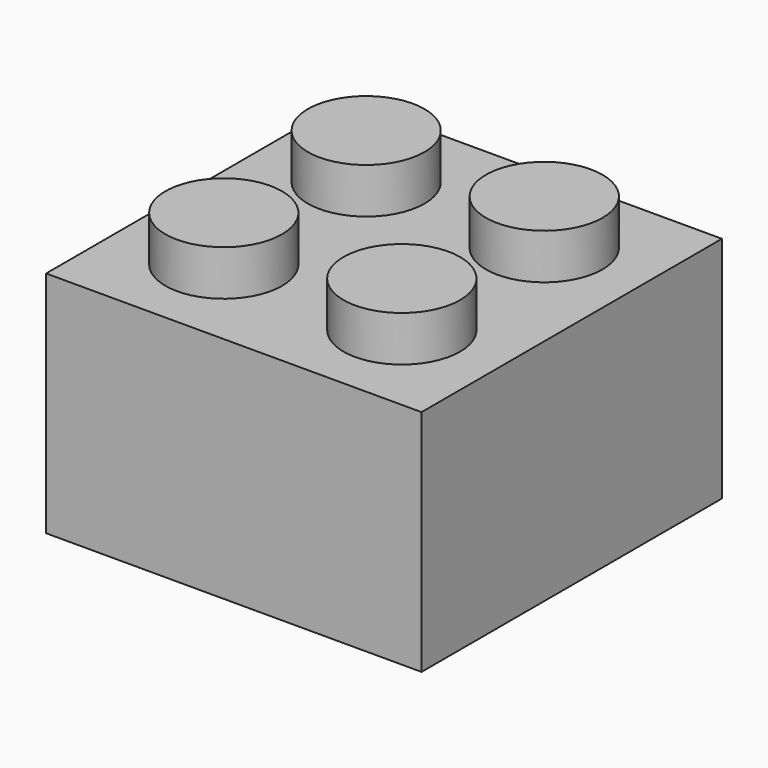
from build123d import *

# Parameters (mm, degrees)
F0_W     = 15.71
F0_H     = 9.57
F1_DEPTH = 15.71
F2_R     = 2.44
F3_DEPTH = 1.9
F4_W     = 13.29
F4_H     = 13.29
F4_R     = 2
F4_R_2   = 3.24
F5_DEPTH = 9
F6_R     = 2.48
F7_DEPTH = 9


with BuildPart() as f1:
    # F0 (on Front) → F1 (new body)
    with BuildSketch(Plane.XZ):
        with Locations((0.7616067305, 3.5766704181)):
            Rectangle(F0_W, F0_H)
    extrude(amount=F1_DEPTH)

    # F2 (on face) → F3 (join)
    with BuildSketch(Plane.XY.offset(8.3616704181)):
        with Locations((4.4866067305, -11.58)):
            Circle(F2_R)
        with Locations((-2.9633932695, -11.58)):
            Circle(F2_R)
        with Locations((-2.9633932695, -4.13)):
            Circle(F2_R)
        with Locations((4.4866067305, -4.13)):
            Circle(F2_R)
    extrude(amount=F3_DEPTH)

    # F4 (on face) → F5 (cut)
    with BuildSketch(Plane(origin=(0, 0, -1.2083295819), x_dir=(1, 0, 0), z_dir=(0, 0, -1))):
        with Locations((0.7616067305, 7.855)):
            Rectangle(F4_W, F4_H)
        with Locations((-3.647951686, 3.4200778348)):
            Circle(F4_R, mode=Mode.SUBTRACT)
        with Locations((0.6830992061, 7.8338431194)):
            Circle(F4_R_2, mode=Mode.SUBTRACT)
        with Locations((5.201886408, 3.4736101516)):
            Circle(F4_R, mode=Mode.SUBTRACT)
        with Locations((-3.6477285673, 12.270077832)):
            Circle(F4_R, mode=Mode.SUBTRACT)
        with Locations((5.2021095268, 12.3236101487)):
            Circle(F4_R, mode=Mode.SUBTRACT)
        with Locations((-3.647951686, 3.4200778348)):
            Circle(F4_R)
        with Locations((-3.6477285673, 12.270077832)):
            Circle(F4_R)
        with Locations((5.2021095268, 12.3236101487)):
            Circle(F4_R)
        with Locations((5.201886408, 3.4736101516)):
            Circle(F4_R)
    extrude(amount=-F5_DEPTH, mode=Mode.SUBTRACT)

    # F6 (on face) → F7 (cut)
    with BuildSketch(Plane(origin=(0, 0, -1.2083295819), x_dir=(1, 0, 0), z_dir=(0, 0, -1))):
        with Locations((0.6830992061, 7.8338431194)):
            Circle(F6_R)
    extrude(amount=-F7_DEPTH, mode=Mode.SUBTRACT)


solid = f1.part
